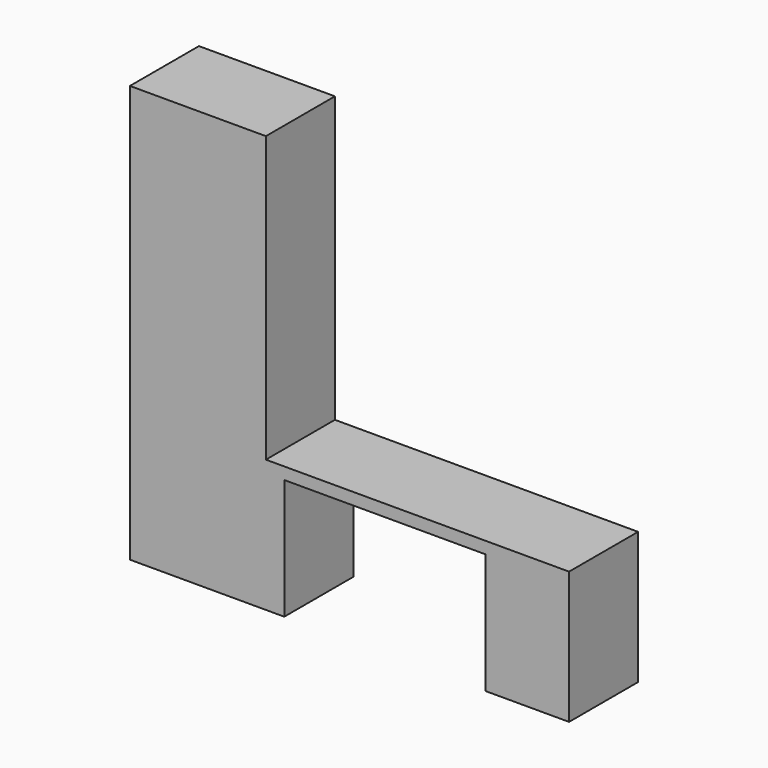
from build123d import *

# Parameters (mm, degrees)
F1_W     = 20.2352330089
F1_H     = 170.9345057607
F1_W_2   = 10.6501244009
F1_H_2   = 69.7583220899
F1_W_3   = 37.8079488873
F1_W_4   = 10.650113225
F2_DEPTH = 50


with BuildPart() as f2:
    # F1 (on face) → F2 (new body)
    with BuildSketch(Plane.XZ):
        with Locations((-84.1281451285, 21.6625593603)):
            Rectangle(F1_W, F1_H)
        Polygon((-74.0105286241, 107.1298122406), (-74.0105286241, -63.8046935201), (-15.4348388314, -63.8046935201), (-15.4348388314, 5.9536285698), (-15.4348388314, 12.8762079403), (-15.4348388314, 107.1298122406), align=None)
        Polygon((-94.2457616329, 177.9531538486), (-94.2457616329, 107.1298122406), (-74.0105286241, 107.1298122406), (-15.4348388314, 107.1298122406), (-15.4348388314, 177.9531538486), align=None)
        with Locations((-10.109776631, -28.9255324751)):
            Rectangle(F1_W_2, F1_H_2)
        Polygon((-15.4348388314, 12.8762079403), (-15.4348388314, 5.9536285698), (-4.7847144306, 5.9536285698), (111.8341609836, 5.9536285698), (149.6421098709, 5.9536285698), (160.2922230959, 5.9536285698), (160.2922230959, 12.8762079403), align=None)
        with Locations((130.7381354272, -28.9255324751)):
            Rectangle(F1_W_3, F1_H_2)
        with Locations((154.9671664834, -28.9255324751)):
            Rectangle(F1_W_4, F1_H_2)
    extrude(amount=F2_DEPTH)


solid = f2.part
